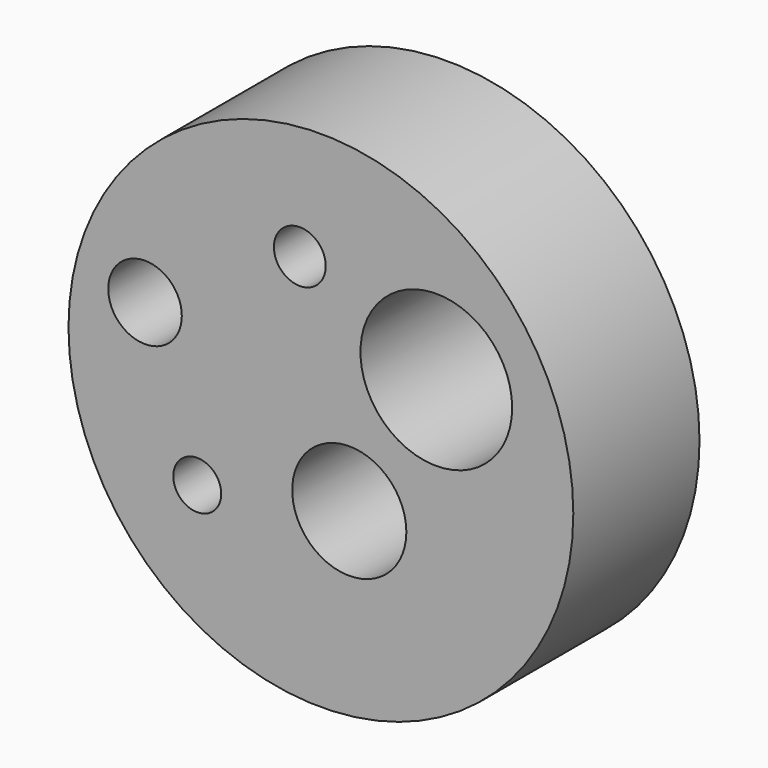
from build123d import *

# Parameters (mm, degrees)
F0_R     = 50.8
F0_R_2   = 4.825027
F0_R_3   = 11.483398
F0_R_4   = 7.40409
F0_R_5   = 5.217602
F0_R_6   = 15.265872
F1_DEPTH = 31.75


with BuildPart() as f1:
    # F0 (on Front) → F1 (new body)
    with BuildSketch(Plane.XZ):
        Circle(F0_R)
        with Locations((-24.887903, -19.541614)):
            Circle(F0_R_2, mode=Mode.SUBTRACT)
        with Locations((5.715001, -14.195322)):
            Circle(F0_R_3, mode=Mode.SUBTRACT)
        with Locations((-35.396129, 9.402096)):
            Circle(F0_R_4, mode=Mode.SUBTRACT)
        with Locations((-4.240162, 27.653227)):
            Circle(F0_R_5, mode=Mode.SUBTRACT)
        with Locations((23.228711, 14.748388)):
            Circle(F0_R_6, mode=Mode.SUBTRACT)
    extrude(amount=F1_DEPTH)


solid = f1.part
